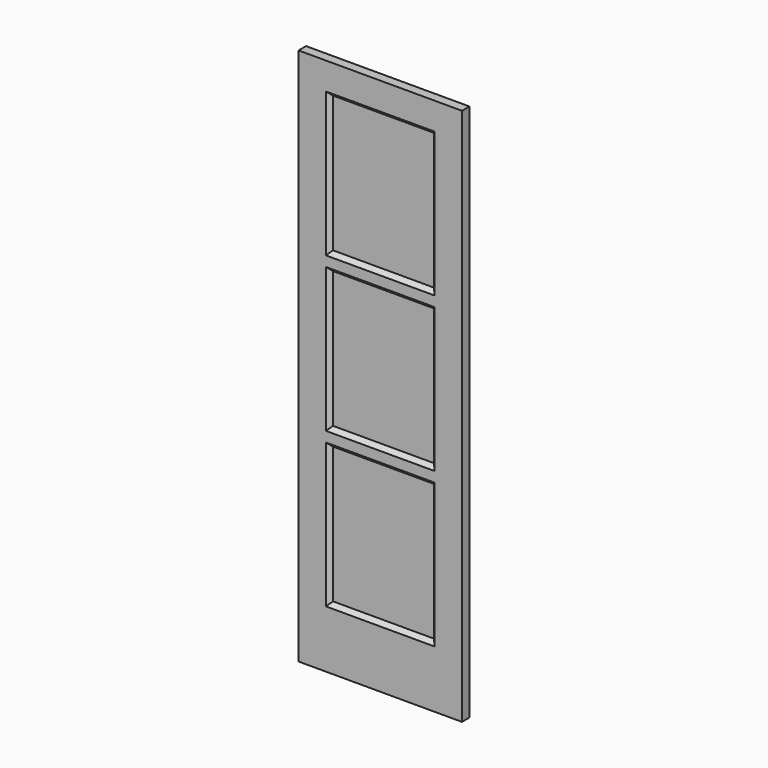
from build123d import *

# Parameters (mm, degrees)
F0_W     = 609.6
F0_H     = 2006.6
F0_W_2   = 406.4
F0_H_2   = 538.1625
F1_DEPTH = 17.4625
F2_W     = 406.4
F2_H     = 538.1625
F3_DEPTH = 15.08125
F3_TAPER = 45
F4_W     = 406.4
F4_H     = 538.1625
F5_DEPTH = 15.08125
F5_TAPER = 45


with BuildPart() as f1:
    # F0 (on Front) → F1 (new body, symmetric)
    with BuildSketch(Plane.XZ):
        with Locations((0, 1003.3)):
            Rectangle(F0_W, F0_H)
        with Locations((0, 483.39375)):
            Rectangle(F0_W_2, F0_H_2, mode=Mode.SUBTRACT)
        with Locations((0, 1059.65625)):
            Rectangle(F0_W_2, F0_H_2, mode=Mode.SUBTRACT)
        with Locations((0, 1635.91875)):
            Rectangle(F0_W_2, F0_H_2, mode=Mode.SUBTRACT)
        with Locations((0, 483.39375)):
            Rectangle(F0_W_2, F0_H_2)
        with Locations((0, 1059.65625)):
            Rectangle(F0_W_2, F0_H_2)
        with Locations((0, 1635.91875)):
            Rectangle(F0_W_2, F0_H_2)
    extrude(amount=F1_DEPTH, both=True)

    # F2 (on face) → F3 (cut)
    with BuildSketch(Plane(origin=(0, 17.4625, 0), x_dir=(-1, 0, 0), z_dir=(0, 1, 0))):
        with Locations((0, 1635.91875)):
            Rectangle(F2_W, F2_H)
        with Locations((0, 1059.65625)):
            Rectangle(F2_W, F2_H)
        with Locations((0, 483.39375)):
            Rectangle(F2_W, F2_H)
    extrude(amount=-F3_DEPTH, taper=F3_TAPER, mode=Mode.SUBTRACT)

    # F4 (on face) → F5 (cut)
    with BuildSketch(Plane.XZ.offset(17.4625)):
        with Locations((0, 1635.91875)):
            Rectangle(F4_W, F4_H)
        with Locations((0, 1059.65625)):
            Rectangle(F4_W, F4_H)
        with Locations((0, 483.39375)):
            Rectangle(F4_W, F4_H)
    extrude(amount=-F5_DEPTH, taper=F5_TAPER, mode=Mode.SUBTRACT)


solid = f1.part
